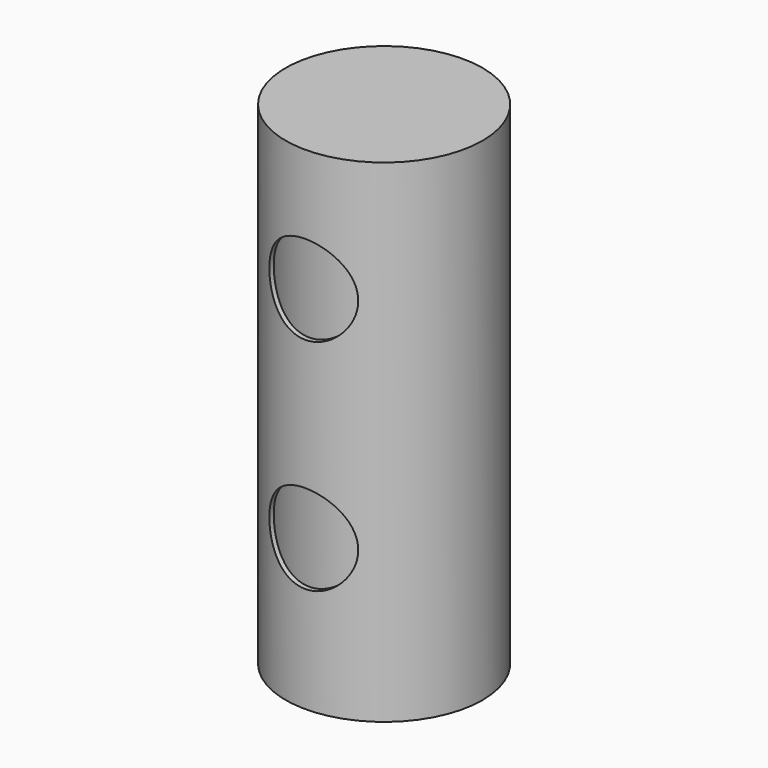
from build123d import *

# Parameters (mm, degrees)
F0_R     = 50.8
F1_DEPTH = 254
F2_T     = -2.54
F3_R     = 22.9273232768
F4_DEPTH = 152.908
F5_R     = 22.9235
F6_DEPTH = 92.202


with BuildPart() as f1:
    # F0 (on Top) → F1 (new body)
    with BuildSketch(Plane.XY):
        Circle(F0_R)
    extrude(amount=F1_DEPTH)

    # F2 (hollow: no face is removed)
    offset(amount=F2_T, mode=Mode.SUBTRACT)

    # F3 (on Front) → F4 (cut)
    with BuildSketch(Plane.XZ):
        with Locations((0, 190.627977252)):
            Circle(F3_R)
    extrude(amount=F4_DEPTH, mode=Mode.SUBTRACT)

    # F5 (on Front) → F6 (cut)
    with BuildSketch(Plane.XZ):
        with Locations((0, 77.4756367312)):
            Circle(F5_R)
    extrude(amount=F6_DEPTH, mode=Mode.SUBTRACT)


solid = f1.part
